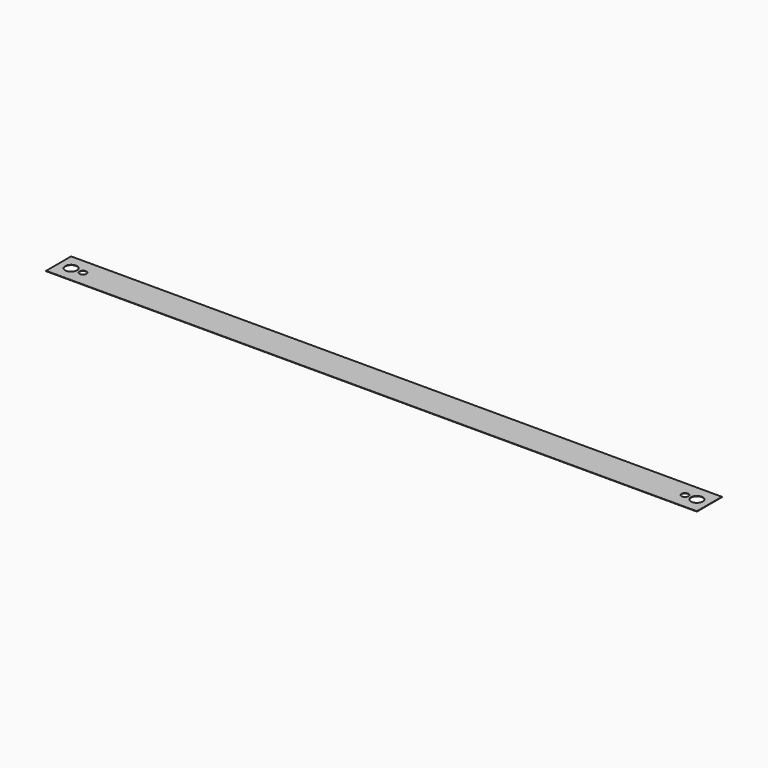
from build123d import *

# Parameters (mm, degrees)
F0_W     = 132.08
F0_H     = 6.35
F0_R     = 1.1938
F0_R_2   = 0.6858
F1_DEPTH = 0.0762


with BuildPart() as f1:
    # F0 (on Top) → F1 (new body)
    with BuildSketch(Plane.XY):
        with Locations((66.04, 3.175)):
            Rectangle(F0_W, F0_H)
        with Locations((2.54, 3.175)):
            Circle(F0_R, mode=Mode.SUBTRACT)
        with Locations((4.953, 3.175)):
            Circle(F0_R_2, mode=Mode.SUBTRACT)
        with Locations((127.127, 3.175)):
            Circle(F0_R_2, mode=Mode.SUBTRACT)
        with Locations((129.54, 3.175)):
            Circle(F0_R, mode=Mode.SUBTRACT)
    extrude(amount=F1_DEPTH)


with BuildPart() as f2_1:
    # F2: copy of F1
    add(f1.part)


solid = Compound([f1.part, f2_1.part])
